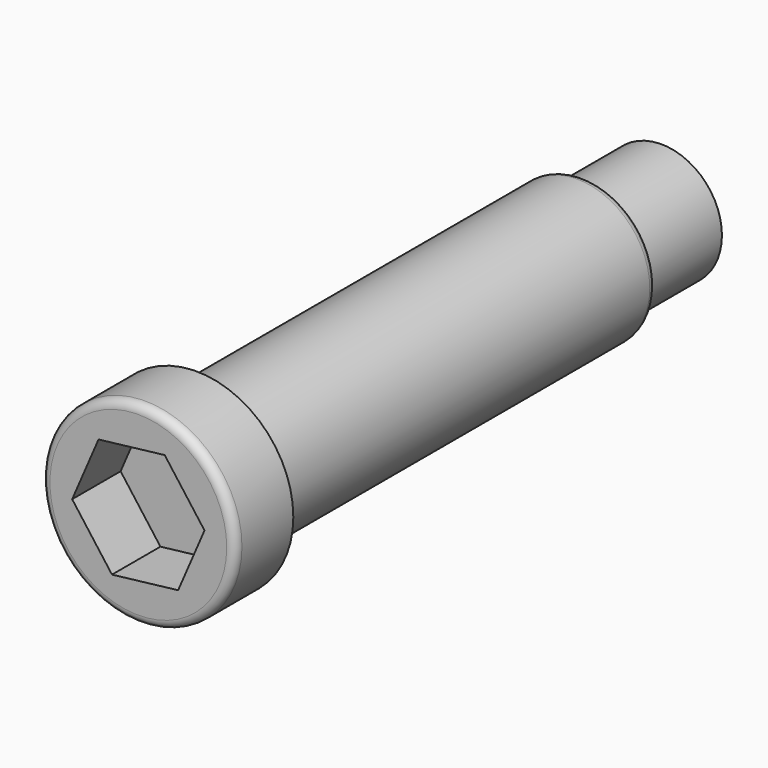
from build123d import *

# Parameters (mm, degrees)
F0_R     = 5
F1_DEPTH = 8
F2_R     = 6
F2_R_2   = 5
F3_DEPTH = 40
F4_R     = 8
F4_R_2   = 6
F5_DEPTH = 6
F7_DEPTH = 5
F8_R     = 0.7


with BuildPart() as f1:
    # F0 (on Front) → F1 (new body)
    with BuildSketch(Plane.XZ):
        Circle(F0_R)
    extrude(amount=F1_DEPTH)

    # F2 (on face) → F3 (join)
    with BuildSketch(Plane.XZ.offset(8)):
        Circle(F2_R)
        Circle(F2_R_2, mode=Mode.SUBTRACT)
        Circle(F2_R_2)
    extrude(amount=F3_DEPTH)

    # F4 (on face) → F5 (join)
    with BuildSketch(Plane.XZ.offset(48)):
        Circle(F4_R)
        Circle(F4_R_2, mode=Mode.SUBTRACT)
        Circle(F4_R_2)
    extrude(amount=F5_DEPTH)

    # F6 (on face) → F7 (cut)
    with BuildSketch(Plane.XZ.offset(54)):
        Polygon((3.2881409233, -4.4123181388), (5.4652500594, 0.6414545014), (2.1771091361, 5.0537726402), (-3.2881409233, 4.4123181388), (-5.4652500594, -0.6414545014), (-2.1771091361, -5.0537726402), align=None)
    extrude(amount=-F7_DEPTH, mode=Mode.SUBTRACT)

    # F8
    f8_edges = [f1.edges().sort_by_distance(p)[0] for p in [
        (6, -28, 0),
        (-6, -8, 0),
        (-6, -48, 0),
        (-8, -54, 0),
    ]]
    fillet(f8_edges, radius=F8_R)


solid = f1.part
